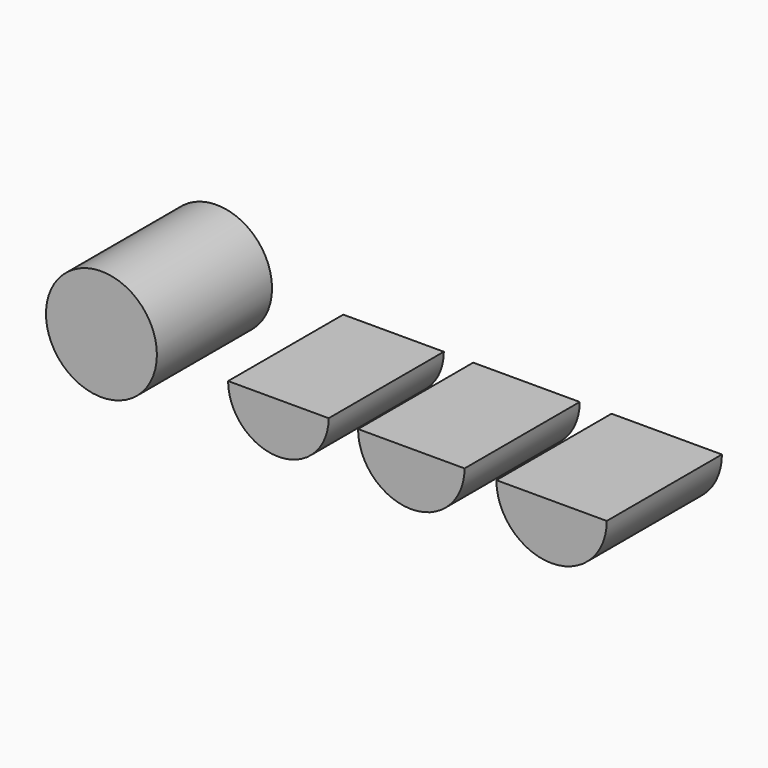
from build123d import *

# Parameters (mm, degrees)
F1_DEPTH = 25


with BuildPart() as f1:
    # F0 (on Front) → F1 (new body)
    with BuildSketch(Plane.XZ):
        with BuildLine():
            Line((47.4482923746, 0), (37.8618785329, 0))
            ThreePointArc((37.8618785329, 0), (47.4482923746, -9.5864138417), (57.0347062163, 0))
            Line((57.0347062163, 0), (47.4482923746, 0))
        make_face()
    extrude(amount=F1_DEPTH)


with BuildPart() as f1b:
    # F0 (on Front) → F1, piece 2 (new body)
    with BuildSketch(Plane.XZ):
        with BuildLine():
            ThreePointArc((-8.7333697495, 0), (0, -8.7333697495), (8.7333697495, 0))
            Line((8.7333697495, 0), (0, 0))
            Line((0, 0), (-8.7333697495, 0))
        make_face()
    extrude(amount=F1_DEPTH)


with BuildPart() as f1c:
    # F0 (on Front) → F1, piece 3 (new body)
    with BuildSketch(Plane.XZ):
        with BuildLine():
            ThreePointArc((-40.3674991654, 0), (-30.7351630181, -9.6323361473), (-21.1028268708, 0))
            Line((-21.1028268708, 0), (-30.7351630181, 0))
            Line((-30.7351630181, 0), (-40.3674991654, 0))
        make_face()
        with BuildLine():
            Line((-30.7351630181, 0), (-21.1028268708, 0))
            ThreePointArc((-21.1028268708, 0), (-30.7351630181, 9.6323361473), (-40.3674991654, 0))
            Line((-40.3674991654, 0), (-30.7351630181, 0))
        make_face()
    extrude(amount=F1_DEPTH)


with BuildPart() as f1d:
    # F0 (on Front) → F1, piece 4 (new body)
    with BuildSketch(Plane.XZ):
        with BuildLine():
            Line((23.0867806822, 0), (13.8369154357, 0))
            ThreePointArc((13.8369154357, 0), (23.0867806822, -9.2498652465), (32.3366459287, 0))
            Line((32.3366459287, 0), (23.0867806822, 0))
        make_face()
    extrude(amount=F1_DEPTH)


solid = Compound([f1.part, f1b.part, f1c.part, f1d.part])
